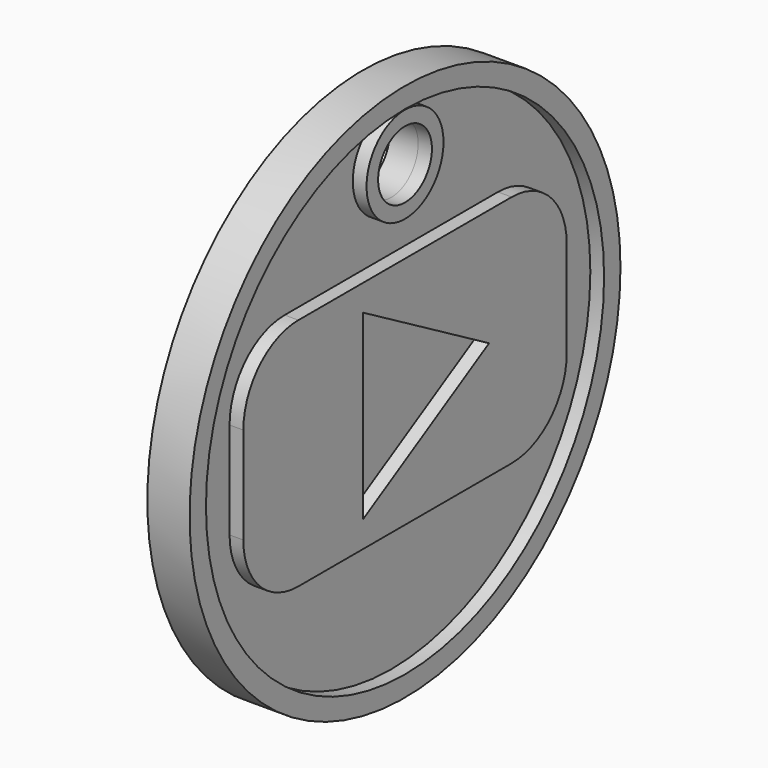
from build123d import *

# Parameters (mm, degrees)
F0_R      = 13.7
F1_DEPTH  = 1.075
F2_R      = 12.658977
F3_DEPTH  = 0.7
F5_R      = 2.446538
F6_DEPTH  = 0.7
F7_R      = 1.710058
F8_DEPTH  = 2.151
F10_DEPTH = 0.7
F12_DEPTH = 0.7


with BuildPart() as f1:
    # F0 (on Right) → F1 (new body, symmetric)
    with BuildSketch(Plane.YZ):
        Circle(F0_R)
    extrude(amount=F1_DEPTH, both=True)

    # F2 (on face) → F3 (cut)
    with BuildSketch(Plane.YZ.offset(1.075)):
        Circle(F2_R)
    extrude(amount=-F3_DEPTH, mode=Mode.SUBTRACT)


with BuildPart() as f6:
    # F5 (on face) → F6 (new body)
    with BuildSketch(Plane.YZ.offset(0.375)):
        with Locations((0, 10.183519)):
            Circle(F5_R)
    extrude(amount=F6_DEPTH)


with BuildPart() as f8_tool:
    # F7 (on face) → F8 (new body, through all)
    with BuildSketch(Plane.YZ.offset(1.075)):
        with Locations((0, 10.183519)):
            Circle(F7_R)
    extrude(amount=-F8_DEPTH)


with BuildPart() as f1_1:
    add(f1.part)

    # F8: cut by f8_tool
    add(f8_tool.part, mode=Mode.SUBTRACT)

    # F9 (on face) → F10 (join)
    with BuildSketch(Plane.YZ.offset(0.375)):
        with BuildLine():
            Line((6.780862, 5.961541), (-6.780862, 5.961541))
            ThreePointArc((-6.780862, 5.961541), (-9.255736, 4.936414), (-10.280862, 2.461541))
            Line((-10.280862, 2.461541), (-10.280862, -2.461541))
            ThreePointArc((-10.280862, -2.461541), (-9.255736, -4.936414), (-6.780862, -5.961541))
            Line((-6.780862, -5.961541), (6.780862, -5.961541))
            ThreePointArc((6.780862, -5.961541), (9.255736, -4.936414), (10.280862, -2.461541))
            Line((10.280862, -2.461541), (10.280862, 2.461541))
            ThreePointArc((10.280862, 2.461541), (9.255736, 4.936414), (6.780862, 5.961541))
        make_face()
    extrude(amount=F10_DEPTH)

    # F11 (on face) → F12 (cut)
    with BuildSketch(Plane.YZ.offset(1.075)):
        Polygon((-2.6725, 4.628907), (-2.6725, -4.628907), (5.345001, 0), align=None)
    extrude(amount=-F12_DEPTH, mode=Mode.SUBTRACT)


with BuildPart() as f6_1:
    add(f6.part)

    # F8: cut by f8_tool
    add(f8_tool.part, mode=Mode.SUBTRACT)


solid = Compound([f1_1.part, f6_1.part])
